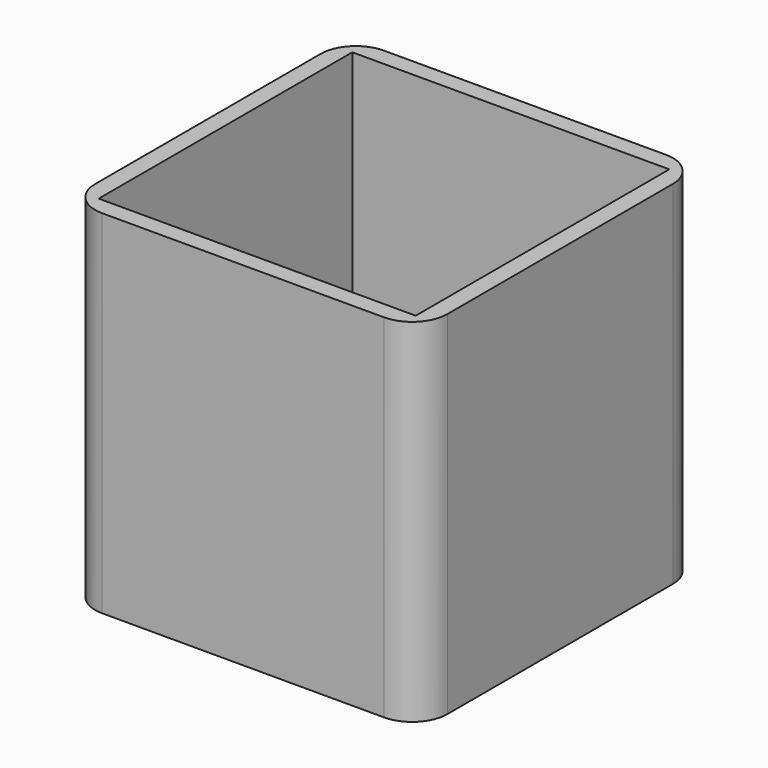
from build123d import *

# Parameters (mm, degrees)
F0_W     = 50
F0_H     = 50
F1_DEPTH = 50
F2_T     = -2.5
F3_R     = 5


with BuildPart() as f1:
    # F0 (on Top) → F1 (new body)
    with BuildSketch(Plane.XY):
        Rectangle(F0_W, F0_H)
    extrude(amount=F1_DEPTH)

    # F2
    f2_openings = [f1.faces().sort_by_distance(p)[0] for p in [
        (0, 0, 50),
    ]]
    offset(amount=F2_T, openings=f2_openings)

    # F3
    f3_edges = [f1.edges().sort_by_distance(p)[0] for p in [
        (-25, -25, 25),
        (25, -25, 25),
        (25, 25, 25),
        (-25, 25, 25),
    ]]
    fillet(f3_edges, radius=F3_R)


solid = f1.part
